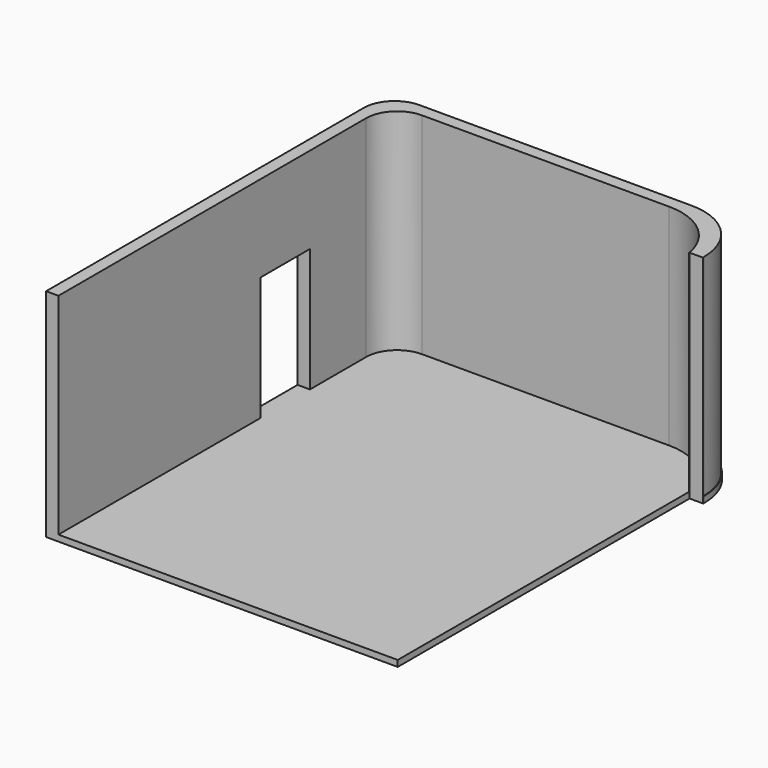
from build123d import *

# Parameters (mm, degrees)
F1_DEPTH = 3500
F3_DEPTH = 100
F4_W     = 1000
F4_H     = 2000
F5_DEPTH = 560
F6_W     = 417.586803
F6_H     = 5898.871898
F7_DEPTH = 3610


with BuildPart() as f1:
    # F0 (on Top) → F1 (new body)
    with BuildSketch(Plane.XY):
        with BuildLine():
            Line((1454.825001, 4137.071715), (-2945.174999, 4137.071715))
            ThreePointArc((-2945.174999, 4137.071715), (-3298.72839, 3990.625105), (-3445.174999, 3637.071715))
            Line((-3445.174999, 3637.071715), (-3445.174999, -3012.928285))
            Line((-3445.174999, -3012.928285), (2454.825001, -3012.928285))
            Line((2454.825001, -3012.928285), (2454.825001, 3137.071715))
            ThreePointArc((2454.825001, 3137.071715), (2161.931782, 3844.178496), (1454.825001, 4137.071715))
        make_face()
        with BuildLine():
            ThreePointArc((-3245.174999, 3437.071715), (-3098.72839, 3790.625105), (-2745.174999, 3937.071715))
            Line((-2745.174999, 3937.071715), (1254.825001, 3937.071715))
            ThreePointArc((1254.825001, 3937.071715), (1961.931782, 3644.178496), (2254.825001, 2937.071715))
            Line((2254.825001, 2937.071715), (2254.825001, -2812.928285))
            Line((2254.825001, -2812.928285), (-3245.174999, -2812.928285))
            Line((-3245.174999, -2812.928285), (-3245.174999, 3437.071715))
        make_face(mode=Mode.SUBTRACT)
    extrude(amount=F1_DEPTH)

    # F2 (on face) → F3 (join)
    with BuildSketch(Plane(origin=(0, 0, 0), x_dir=(1, 0, 0), z_dir=(0, 0, -1))):
        with BuildLine():
            Line((2461.945772, 3012.928285), (-3445.174999, 3012.928285))
            Line((-3445.174999, 3012.928285), (-3445.174999, -3644.817352))
            ThreePointArc((-3445.174999, -3644.817352), (-3298.72839, -3998.370743), (-2945.174999, -4144.817352))
            Line((-2945.174999, -4144.817352), (1461.945772, -4144.817352))
            ThreePointArc((1461.945772, -4144.817352), (2169.052553, -3851.924133), (2461.945772, -3144.817352))
            Line((2461.945772, -3144.817352), (2461.945772, 3012.928285))
        make_face()
    extrude(amount=-F3_DEPTH)

    # F4 (on face) → F5 (cut)
    with BuildSketch(Plane(origin=(-3445.174999, 0, 0), x_dir=(0, -1, 0), z_dir=(-1, 0, 0))):
        with Locations((-1800.583731, 1100)):
            Rectangle(F4_W, F4_H)
    extrude(amount=-F5_DEPTH, mode=Mode.SUBTRACT)

    # F6 (on face) → F7 (cut)
    with BuildSketch(Plane.XY.offset(3500)):
        Polygon((2241.302252, -2783.216476), (-3555.570841, -2783.216476), (-3555.570841, -3383.711338), (2658.889055, -3383.711338), (2658.889055, -2783.216476), align=None)
        with Locations((2450.095654, 166.219473)):
            Rectangle(F6_W, F6_H)
    extrude(amount=-F7_DEPTH, mode=Mode.SUBTRACT)


solid = f1.part
